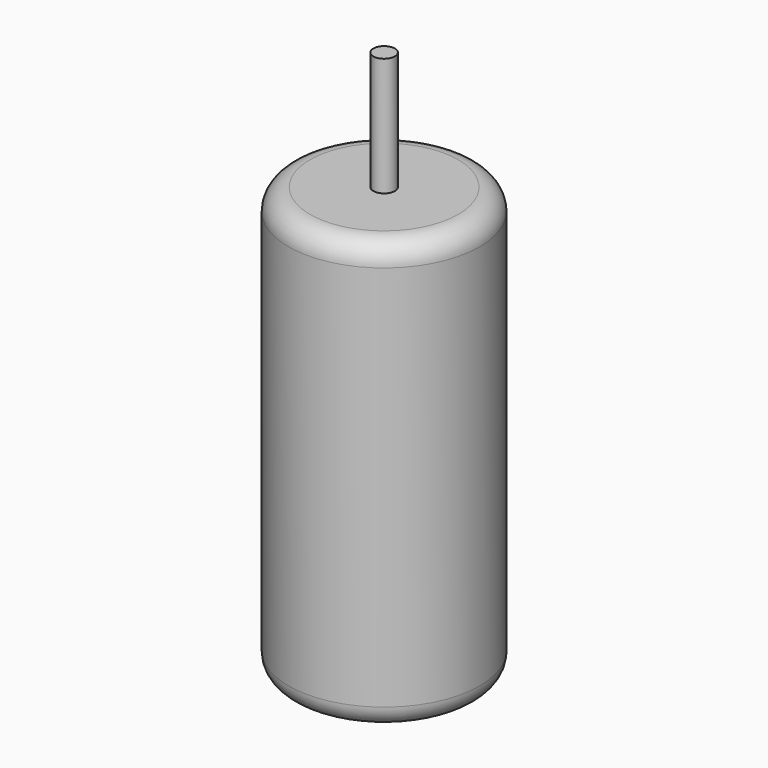
from build123d import *

# Parameters (mm, degrees)
F0_R     = 4.45
F1_DEPTH = 20
F2_R     = 1
F3_R     = 0.5
F4_DEPTH = 5.519319


with BuildPart() as f1:
    # F0 (on Top) → F1 (new body)
    with BuildSketch(Plane.XY):
        Circle(F0_R)
    extrude(amount=F1_DEPTH)

    # F2
    f2_edges = [f1.edges().sort_by_distance(p)[0] for p in [
        (-4.45, 0, 20),
        (-4.45, 0, 0),
    ]]
    fillet(f2_edges, radius=F2_R)

    # F3 (on face) → F4 (join)
    with BuildSketch(Plane.XY.offset(20)):
        Circle(F3_R)
    extrude(amount=F4_DEPTH)


solid = f1.part
